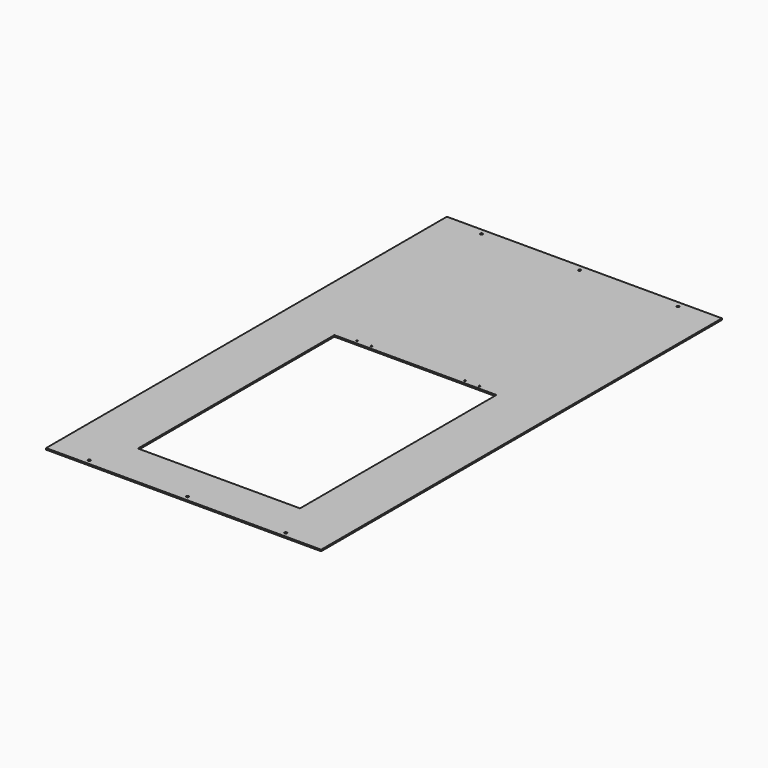
from build123d import *

# Parameters (mm, degrees)
SKETCH_W   = 560
SKETCH_H   = 1020
SKETCH_R   = 2.5
SKETCH_R_2 = 1.6
SKETCH_W_2 = 330
SKETCH_H_2 = 500
PAD_DEPTH  = 3


with BuildPart() as part:
    # Sketch → Pad (new body)
    with BuildSketch(Plane.XY):
        with Locations((280, 510)):
            Rectangle(SKETCH_W, SKETCH_H)
        with Locations((80, 1008)):
            Circle(SKETCH_R, mode=Mode.SUBTRACT)
        with Locations((280, 1008)):
            Circle(SKETCH_R, mode=Mode.SUBTRACT)
        with Locations((480, 1008)):
            Circle(SKETCH_R, mode=Mode.SUBTRACT)
        with Locations((80, 10)):
            Circle(SKETCH_R, mode=Mode.SUBTRACT)
        with Locations((280, 10)):
            Circle(SKETCH_R, mode=Mode.SUBTRACT)
        with Locations((480, 10)):
            Circle(SKETCH_R, mode=Mode.SUBTRACT)
        with Locations((405, 597)):
            Circle(SKETCH_R_2, mode=Mode.SUBTRACT)
        with Locations((155, 597)):
            Circle(SKETCH_R_2, mode=Mode.SUBTRACT)
        with Locations((185, 597)):
            Circle(SKETCH_R_2, mode=Mode.SUBTRACT)
        with Locations((375, 597)):
            Circle(SKETCH_R_2, mode=Mode.SUBTRACT)
        with Locations((280, 340)):
            Rectangle(SKETCH_W_2, SKETCH_H_2, mode=Mode.SUBTRACT)
    extrude(amount=PAD_DEPTH)


solid = part.part
